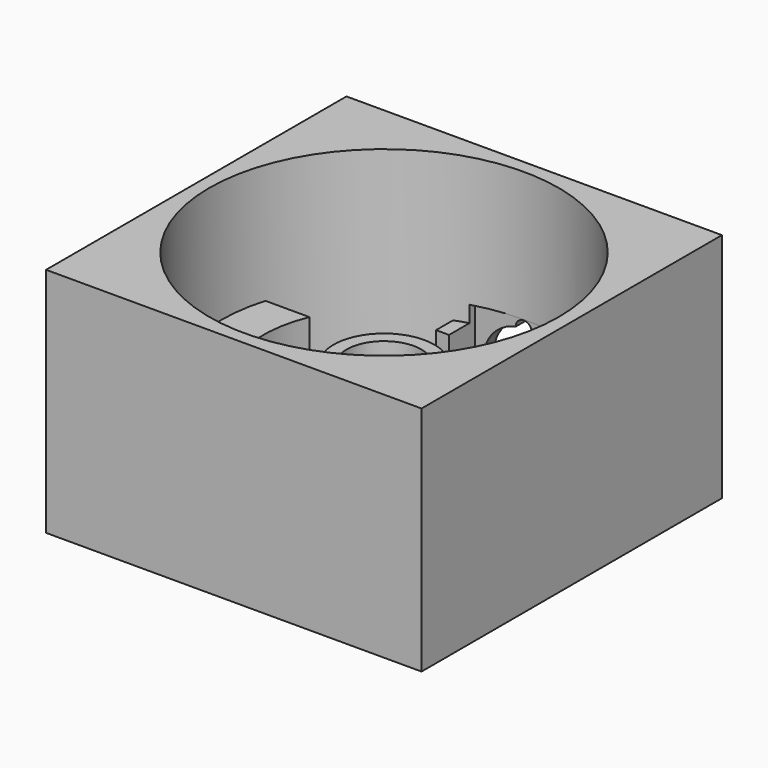
from build123d import *

# Parameters (mm, degrees)
F0_W      = 46.2
F0_H      = 46.2
F1_DEPTH  = 1.5
F2_W      = 46.2
F2_H      = 46.2
F2_R      = 21.5
F3_DEPTH  = 27
F4_R      = 6.2
F4_R_2    = 1.5
F5_DEPTH  = 6
F6_R      = 6.2
F6_R_2    = 4.6
F7_DEPTH  = 9
F9_DEPTH  = 13.2
F11_DEPTH = 3.1894764338
F12_W     = 12
F12_H     = 15
F13_DEPTH = 11
F15_DEPTH = 9


with BuildPart() as f1:
    # F0 (on Top) → F1 (new body)
    with BuildSketch(Plane.XY):
        with Locations((23.1, 23.1)):
            Rectangle(F0_W, F0_H)
    extrude(amount=F1_DEPTH)

    # F2 (on face) → F3 (join)
    with BuildSketch(Plane.XY.offset(1.5)):
        with Locations((23.1, 23.1)):
            Rectangle(F2_W, F2_H)
        with Locations((23.1, 23.1)):
            Circle(F2_R, mode=Mode.SUBTRACT)
    extrude(amount=F3_DEPTH)

    # F4 (on face) → F5 (join)
    with BuildSketch(Plane.XY.offset(1.5)):
        with Locations((23.1, 23.1)):
            Circle(F4_R)
        with Locations((23.1, 23.1)):
            Circle(F4_R_2, mode=Mode.SUBTRACT)
    extrude(amount=F5_DEPTH)

    # F6 (on face) → F7 (join)
    with BuildSketch(Plane.XY.offset(7.5)):
        with Locations((23.1, 23.1)):
            Circle(F6_R)
        with Locations((23.1, 23.1)):
            Circle(F6_R_2, mode=Mode.SUBTRACT)
    extrude(amount=F7_DEPTH)

    # F8 (on face) → F9 (join)
    with BuildSketch(Plane.XY.offset(1.5)):
        with BuildLine():
            ThreePointArc((3.9363687534, 28.8232191506), (3.1, 23.1), (3.9363687534, 17.3767808494))
            Line((3.9363687534, 17.3767808494), (9.3430104109, 17.3767808494))
            ThreePointArc((9.3430104109, 17.3767808494), (8.2, 23.1), (9.3430104109, 28.8232191506))
            Line((9.3430104109, 28.8232191506), (3.9363687534, 28.8232191506))
        make_face()
        with BuildLine():
            ThreePointArc((42.2636312466, 17.3767808494), (43.1, 23.1), (42.2636312466, 28.8232191506))
            Line((42.2636312466, 28.8232191506), (36.8569895891, 28.8232191506))
            ThreePointArc((36.8569895891, 28.8232191506), (38, 23.1), (36.8569895891, 17.3767808494))
            Line((36.8569895891, 17.3767808494), (42.2636312466, 17.3767808494))
        make_face()
    extrude(amount=F9_DEPTH)

    # F10 (on face) → F11 (cut, up to face)
    with BuildSketch(Plane(origin=(0, 46.2, 0), x_dir=(-1, 0, 0), z_dir=(0, 1, 0))):
        with BuildLine():
            ThreePointArc((-24.1, 11.3989794856), (-23.1, 1.5), (-22.1, 11.3989794856))
            ThreePointArc((-22.1, 11.3989794856), (-23.1, 12.3989794856), (-24.1, 11.3989794856))
        make_face()
    extrude(amount=-F11_DEPTH, mode=Mode.SUBTRACT)

    # F12 (on face) → F13 (cut)
    with BuildSketch(Plane.XY.offset(1.5)):
        with Locations((23.1, 37.1)):
            Rectangle(F12_W, F12_H)
    extrude(amount=F13_DEPTH, mode=Mode.SUBTRACT)

    # F14 (on face) → F15 (join)
    with BuildSketch(Plane.XY.offset(1.5)):
        with BuildLine():
            Line((17.1, 40.6), (17.1, 43.7458228221))
            ThreePointArc((17.1, 43.7458228221), (16.2947624154, 43.4945762745), (15.5, 43.2119367541))
            Line((15.5, 43.2119367541), (15.5, 40.6))
            Line((15.5, 40.6), (17.1, 40.6))
        make_face()
        with BuildLine():
            ThreePointArc((30.7, 43.2119367541), (29.9052375846, 43.4945762745), (29.1, 43.7458228221))
            Line((29.1, 43.7458228221), (29.1, 32.6))
            Line((29.1, 32.6), (30.7, 32.6))
            Line((30.7, 32.6), (30.7, 43.2119367541))
        make_face()
    extrude(amount=F15_DEPTH)


solid = f1.part
